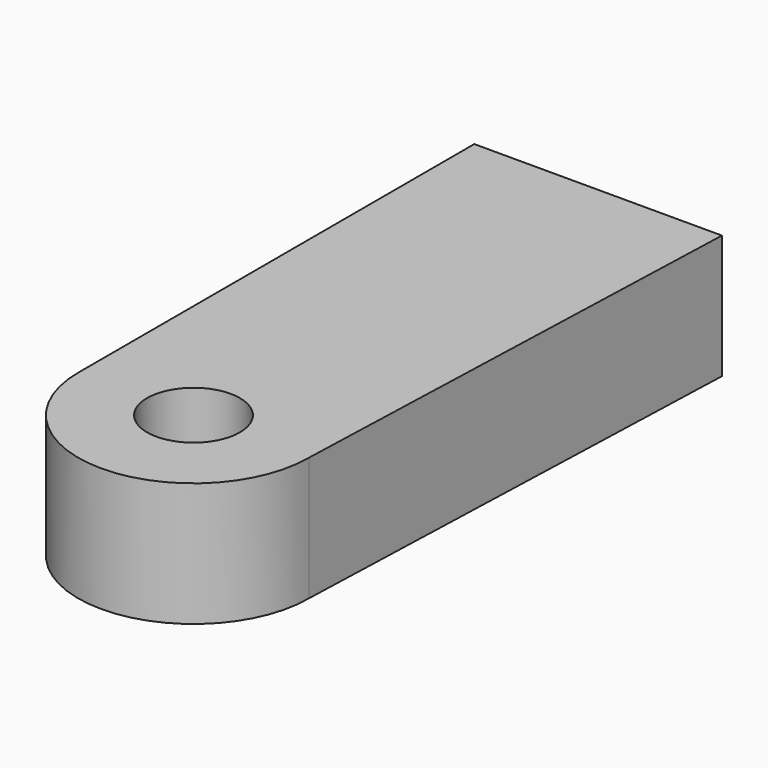
from build123d import *

# Parameters (mm, degrees)
F1_DEPTH = 25.4


with BuildPart() as f1:
    # F0 (on Top) → F1 (new body)
    with BuildSketch(Plane.XY):
        with BuildLine():
            ThreePointArc((-10.276711, -27.172819), (-0.751711, -17.647819), (8.773289, -27.172819))
            Line((8.773289, -27.172819), (22.890035, -27.172819))
            Line((22.890035, -27.172819), (26.406542, 74.366307))
            Line((26.406542, 74.366307), (-24.393458, 74.366307))
            Line((-24.393458, 74.366307), (-24.393458, -27.172819))
            Line((-24.393458, -27.172819), (-10.276711, -27.172819))
        make_face()
        with BuildLine():
            Line((22.890035, -27.172819), (8.773289, -27.172819))
            ThreePointArc((8.773289, -27.172819), (-0.751711, -36.697819), (-10.276711, -27.172819))
            Line((-10.276711, -27.172819), (-24.393458, -27.172819))
            ThreePointArc((-24.393458, -27.172819), (-0.751711, -50.814566), (22.890035, -27.172819))
        make_face()
    extrude(amount=F1_DEPTH)


solid = f1.part
